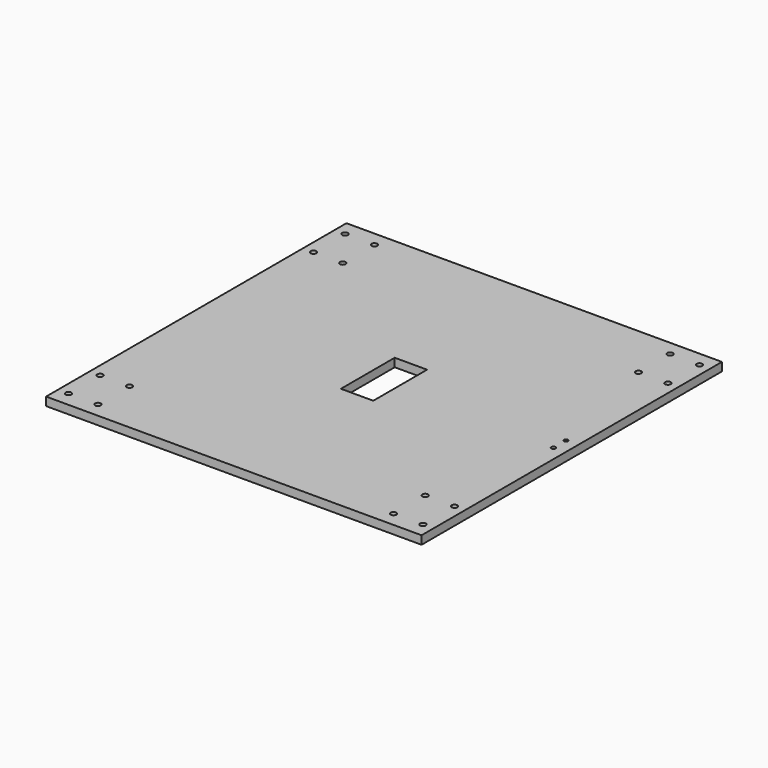
from build123d import *

# Parameters (mm, degrees)
F0_W     = 226.934572
F0_H     = 226.934572
F0_R     = 1.7272
F0_W_2   = 19.558
F0_H_2   = 40.64
F0_R_2   = 1.25
F1_DEPTH = 5.08


with BuildPart() as f1:
    # F0 (on Top) → F1 (new body)
    with BuildSketch(Plane.XY):
        Rectangle(F0_W, F0_H)
        with Locations((-107.117286, -104.450286)):
            Circle(F0_R, mode=Mode.SUBTRACT)
        with Locations((-89.337286, -104.450286)):
            Circle(F0_R, mode=Mode.SUBTRACT)
        with Locations((-107.117286, -80.574286)):
            Circle(F0_R, mode=Mode.SUBTRACT)
        with Locations((-89.337286, -80.574286)):
            Circle(F0_R, mode=Mode.SUBTRACT)
        Rectangle(F0_W_2, F0_H_2, mode=Mode.SUBTRACT)
        with Locations((89.337286, -104.450286)):
            Circle(F0_R, mode=Mode.SUBTRACT)
        with Locations((107.117286, -104.450286)):
            Circle(F0_R, mode=Mode.SUBTRACT)
        with Locations((89.337286, -80.574286)):
            Circle(F0_R, mode=Mode.SUBTRACT)
        with Locations((107.117286, -80.574286)):
            Circle(F0_R, mode=Mode.SUBTRACT)
        with Locations((106.167276, -4.750003)):
            Circle(F0_R_2, mode=Mode.SUBTRACT)
        with Locations((-107.117286, 80.574286)):
            Circle(F0_R, mode=Mode.SUBTRACT)
        with Locations((-89.337286, 80.574286)):
            Circle(F0_R, mode=Mode.SUBTRACT)
        with Locations((-107.117286, 104.450286)):
            Circle(F0_R, mode=Mode.SUBTRACT)
        with Locations((-89.337286, 104.450286)):
            Circle(F0_R, mode=Mode.SUBTRACT)
        with Locations((106.167276, 4.750003)):
            Circle(F0_R_2, mode=Mode.SUBTRACT)
        with Locations((89.337286, 80.574286)):
            Circle(F0_R, mode=Mode.SUBTRACT)
        with Locations((107.117286, 80.574286)):
            Circle(F0_R, mode=Mode.SUBTRACT)
        with Locations((89.337286, 104.450286)):
            Circle(F0_R, mode=Mode.SUBTRACT)
        with Locations((107.117286, 104.450286)):
            Circle(F0_R, mode=Mode.SUBTRACT)
    extrude(amount=F1_DEPTH)


solid = f1.part
